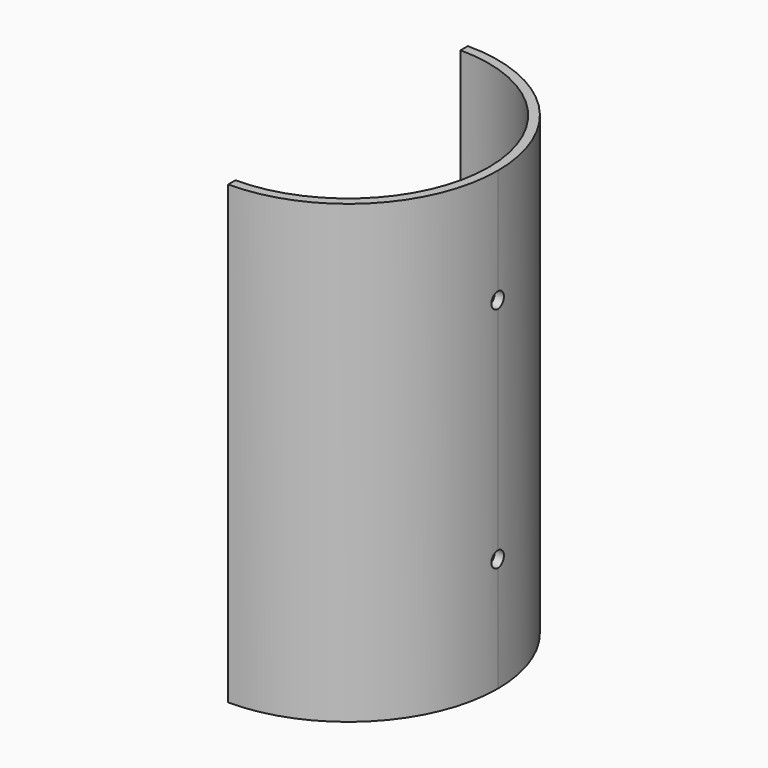
from build123d import *

# Parameters (mm, degrees)
F1_DEPTH = 87.5
F3_R     = 1.5
F4_DEPTH = 28.751


with BuildPart() as f1:
    # F0 (on Top) → F1 (new body)
    with BuildSketch(Plane.XY):
        with BuildLine():
            ThreePointArc((0, -28.75), (20.3293199591, -20.3293199591), (28.75, 0))
            ThreePointArc((28.75, 0), (20.3293199591, 20.3293199591), (0, 28.75))
            Line((0, 28.75), (0, 27))
            ThreePointArc((0, 27), (19.091883092, 19.091883092), (27, 0))
            ThreePointArc((27, 0), (19.091883092, -19.091883092), (0, -27))
            Line((0, -27), (0, -28.75))
        make_face()
    extrude(amount=F1_DEPTH)

    # F3 (on Right) → F4 (cut, through all)
    with BuildSketch(Plane.YZ):
        with Locations((0, 65.625)):
            Circle(F3_R)
        with Locations((0, 21.875)):
            Circle(F3_R)
    extrude(amount=F4_DEPTH, mode=Mode.SUBTRACT)


solid = f1.part
